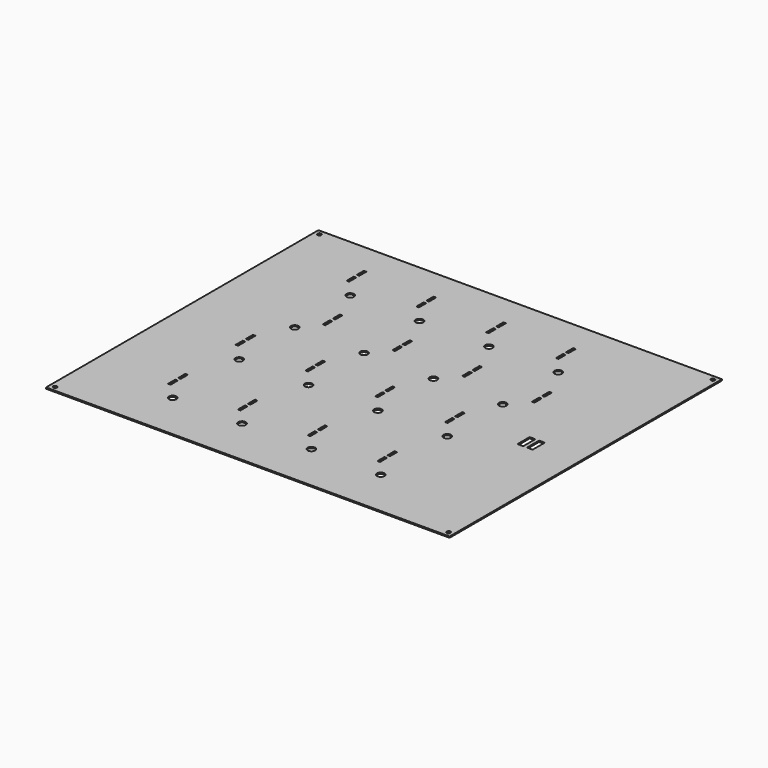
from build123d import *

# Parameters (mm, degrees)
BOX_W                  = 320
BOX_H                  = 270
BOX_DEPTH              = 1
SKETCH_W               = 2
SKETCH_H               = 7
POCKET_DEPTH           = 5
LINEARPATTERN_COUNT    = 4
LINEARPATTERN_PITCH    = 55.333333
SKETCH001_W            = 2
SKETCH001_H            = 7
POCKET001_DEPTH        = 5
LINEARPATTERN001_COUNT = 4
LINEARPATTERN001_PITCH = 55.333333
SKETCH002_W            = 2
SKETCH002_H            = 7
POCKET002_DEPTH        = 5
LINEARPATTERN002_COUNT = 4
LINEARPATTERN002_PITCH = 55.333333
SKETCH003_W            = 2
SKETCH003_H            = 7
POCKET003_DEPTH        = 5
LINEARPATTERN003_COUNT = 4
LINEARPATTERN003_PITCH = 55.333333
SKETCH004_R            = 3
POCKET004_DEPTH        = 5
LINEARPATTERN004_COUNT = 3
LINEARPATTERN004_PITCH = 55
SKETCH005_R            = 3
POCKET005_DEPTH        = 5
SKETCH006_W            = 4.5
SKETCH006_H            = 12
POCKET006_DEPTH        = 5
SKETCH007_R            = 1.5
POCKET007_DEPTH        = 5


with BuildPart() as part:
    # Box → Box (new body)
    with BuildSketch(Plane.XY):
        with Locations((160, 135)):
            Rectangle(BOX_W, BOX_H)
    extrude(amount=BOX_DEPTH)

    # Sketch → Pocket (cut)
    with BuildSketch(Plane.XY.offset(1)):
        with Locations((57, 241.5)):
            Rectangle(SKETCH_W, SKETCH_H)
        with Locations((57, 231.5)):
            Rectangle(SKETCH_W, SKETCH_H)
    pocket = extrude(amount=-POCKET_DEPTH, mode=Mode.SUBTRACT)

    # LinearPattern: Pocket ×4
    with Locations(*[(i * LINEARPATTERN_PITCH, 0, 0) for i in range(1, LINEARPATTERN_COUNT)]):
        add(pocket, mode=Mode.SUBTRACT)

    # Sketch001 → Pocket001 (cut)
    with BuildSketch(Plane.XY.offset(1)):
        with Locations((57, 131.5)):
            Rectangle(SKETCH001_W, SKETCH001_H)
        with Locations((57, 121.5)):
            Rectangle(SKETCH001_W, SKETCH001_H)
    pocket001 = extrude(amount=-POCKET001_DEPTH, mode=Mode.SUBTRACT)

    # LinearPattern001: Pocket001 ×4
    with Locations(*[(i * LINEARPATTERN001_PITCH, 0, 0) for i in range(1, LINEARPATTERN001_COUNT)]):
        add(pocket001, mode=Mode.SUBTRACT)

    # Sketch002 → Pocket002 (cut)
    with BuildSketch(Plane.XY.offset(1)):
        with Locations((57, 64.5)):
            Rectangle(SKETCH002_W, SKETCH002_H)
        with Locations((57, 54.5)):
            Rectangle(SKETCH002_W, SKETCH002_H)
    pocket002 = extrude(amount=-POCKET002_DEPTH, mode=Mode.SUBTRACT)

    # LinearPattern002: Pocket002 ×4
    with Locations(*[(i * LINEARPATTERN002_PITCH, 0, 0) for i in range(1, LINEARPATTERN002_COUNT)]):
        add(pocket002, mode=Mode.SUBTRACT)

    # Sketch003 → Pocket003 (cut)
    with BuildSketch(Plane.XY.offset(1)):
        with Locations((82, 186.5)):
            Rectangle(SKETCH003_W, SKETCH003_H)
        with Locations((82, 176.5)):
            Rectangle(SKETCH003_W, SKETCH003_H)
    pocket003 = extrude(amount=-POCKET003_DEPTH, mode=Mode.SUBTRACT)

    # LinearPattern003: Pocket003 ×4
    with Locations(*[(i * LINEARPATTERN003_PITCH, 0, 0) for i in range(1, LINEARPATTERN003_COUNT)]):
        add(pocket003, mode=Mode.SUBTRACT)

    # Sketch004 → Pocket004 (cut)
    with BuildSketch(Plane.XY.offset(1)):
        with Locations((70, 214)):
            Circle(SKETCH004_R)
        with Locations((125, 214)):
            Circle(SKETCH004_R)
        with Locations((180, 214)):
            Circle(SKETCH004_R)
        with Locations((235, 214)):
            Circle(SKETCH004_R)
    pocket004 = extrude(amount=-POCKET004_DEPTH, mode=Mode.SUBTRACT)

    # LinearPattern004: Pocket004 ×3
    with Locations(*[(0, -i * LINEARPATTERN004_PITCH, 0) for i in range(1, LINEARPATTERN004_COUNT)]):
        add(pocket004, mode=Mode.SUBTRACT)

    # Sketch005 → Pocket005 (cut)
    with BuildSketch(Plane.XY.offset(1)):
        with Locations((70, 38)):
            Circle(SKETCH005_R)
        with Locations((125, 38)):
            Circle(SKETCH005_R)
        with Locations((180, 38)):
            Circle(SKETCH005_R)
        with Locations((235, 38)):
            Circle(SKETCH005_R)
    extrude(amount=-POCKET005_DEPTH, mode=Mode.SUBTRACT)

    # Sketch006 → Pocket006 (cut)
    with BuildSketch(Plane.XY.offset(1)):
        with Locations((277.75, 129)):
            Rectangle(SKETCH006_W, SKETCH006_H)
        with Locations((285.25, 129)):
            Rectangle(SKETCH006_W, SKETCH006_H)
    extrude(amount=-POCKET006_DEPTH, mode=Mode.SUBTRACT)

    # Sketch007 → Pocket007 (cut)
    with BuildSketch(Plane.XY.offset(1)):
        with Locations((4, 4)):
            Circle(SKETCH007_R)
        with Locations((4, 266)):
            Circle(SKETCH007_R)
        with Locations((316, 266)):
            Circle(SKETCH007_R)
        with Locations((316, 4)):
            Circle(SKETCH007_R)
    extrude(amount=-POCKET007_DEPTH, mode=Mode.SUBTRACT)


solid = part.part
